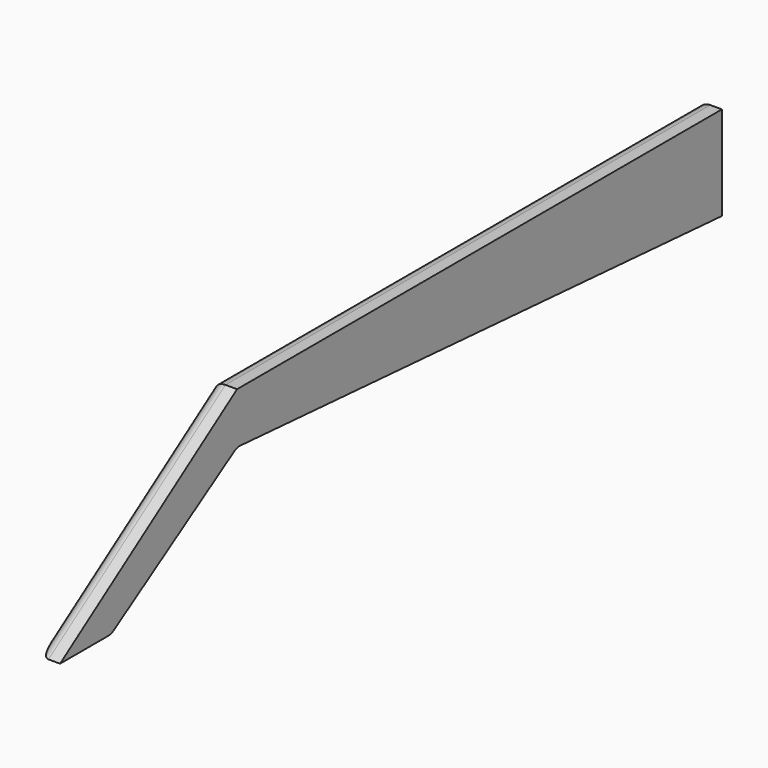
from build123d import *

# Parameters (mm, degrees)
F1_DEPTH = 3.82
F2_R     = 2


with BuildPart() as f1:
    # F0 (on Right) → F1 (new body)
    with BuildSketch(Plane.YZ):
        Polygon((33.298553, -6.72), (33.298553, 8), (-61.701447, 8), (-96.385158, -15.782844), (-86.385158, -15.782844), (-61.701447, 0), align=None)
    extrude(amount=F1_DEPTH)

    # F2
    f2_edges = [f1.edges().sort_by_distance(p)[0] for p in [
        (0, -14.201447, 8),
        (0, -14.201447, -3.36),
        (0, -79.043303, -3.891422),
        (0, -74.043303, -7.891422),
        (0, -91.385158, -15.782844),
        (1.91, -61.701447, 0),
        (1.91, -86.385158, -15.782844),
    ]]
    fillet(f2_edges, radius=F2_R)


solid = f1.part
